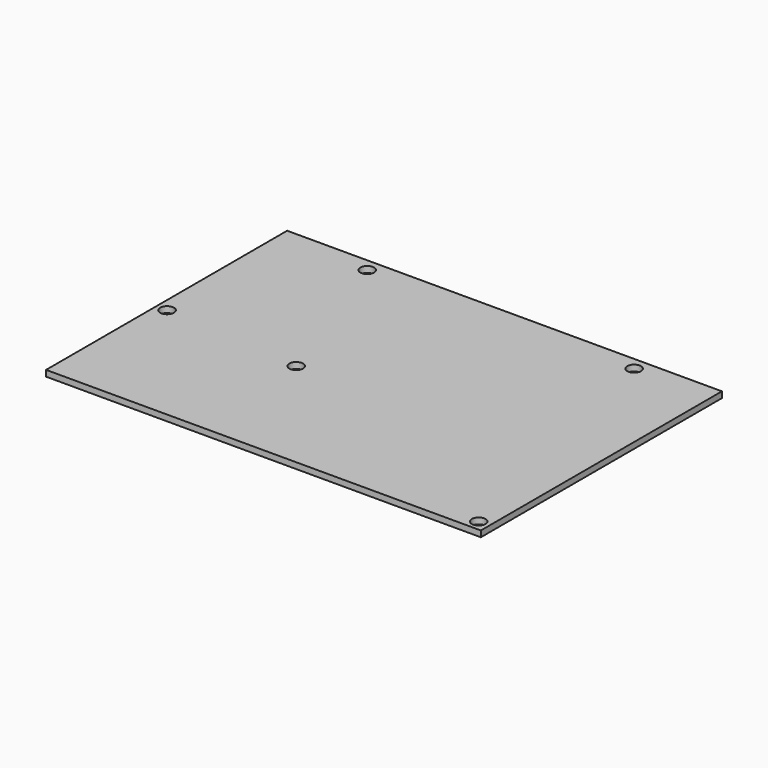
from build123d import *

# Parameters (mm, degrees)
SKETCH_W  = 101
SKETCH_H  = 70
SKETCH_R  = 1.6
PAD_DEPTH = 1.4


with BuildPart() as part:
    # Sketch → Pad (new body)
    with BuildSketch(Plane.XY):
        Rectangle(SKETCH_W, SKETCH_H)
        with Locations((-48, -3)):
            Circle(SKETCH_R, mode=Mode.SUBTRACT)
        with Locations((-16, -5.5)):
            Circle(SKETCH_R, mode=Mode.SUBTRACT)
        with Locations((48, -32.5)):
            Circle(SKETCH_R, mode=Mode.SUBTRACT)
        with Locations((32.5, 32)):
            Circle(SKETCH_R, mode=Mode.SUBTRACT)
        with Locations((-29.5, 32)):
            Circle(SKETCH_R, mode=Mode.SUBTRACT)
    extrude(amount=PAD_DEPTH)


solid = part.part
